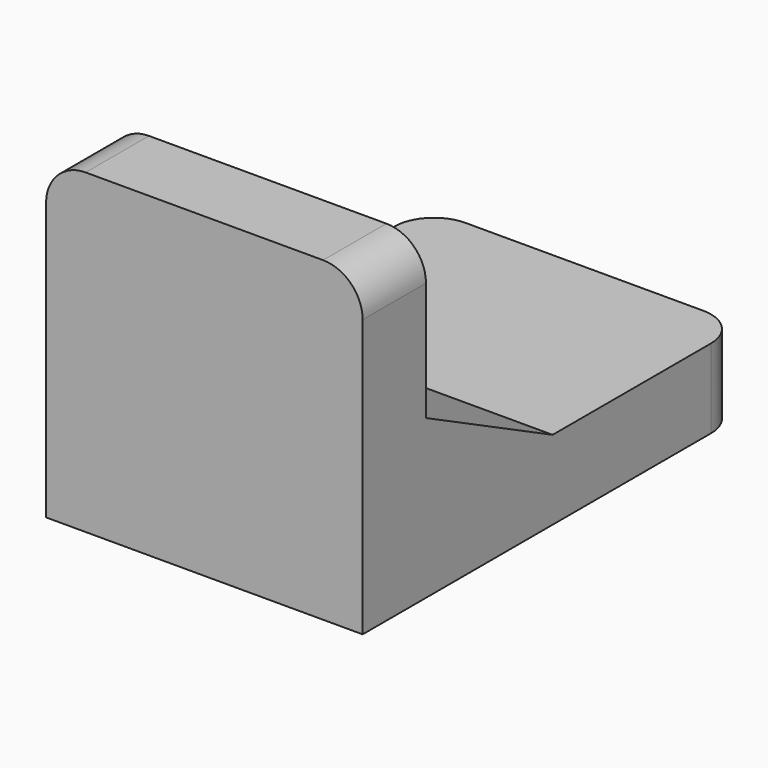
from build123d import *

# Parameters (mm, degrees)
F1_DEPTH = 40
F2_R     = 5


with BuildPart() as f1:
    # F0 (on Right) → F1 (new body)
    with BuildSketch(Plane.YZ):
        Polygon((0, 40), (0, 0), (60, 0), (60, 10), (30, 10), (10, 20), (10, 40), align=None)
    extrude(amount=F1_DEPTH)

    # F2
    f2_edges = [f1.edges().sort_by_distance(p)[0] for p in [
        (40, 5, 40),
        (0, 5, 40),
        (40, 60, 5),
        (0, 60, 5),
    ]]
    fillet(f2_edges, radius=F2_R)


solid = f1.part
